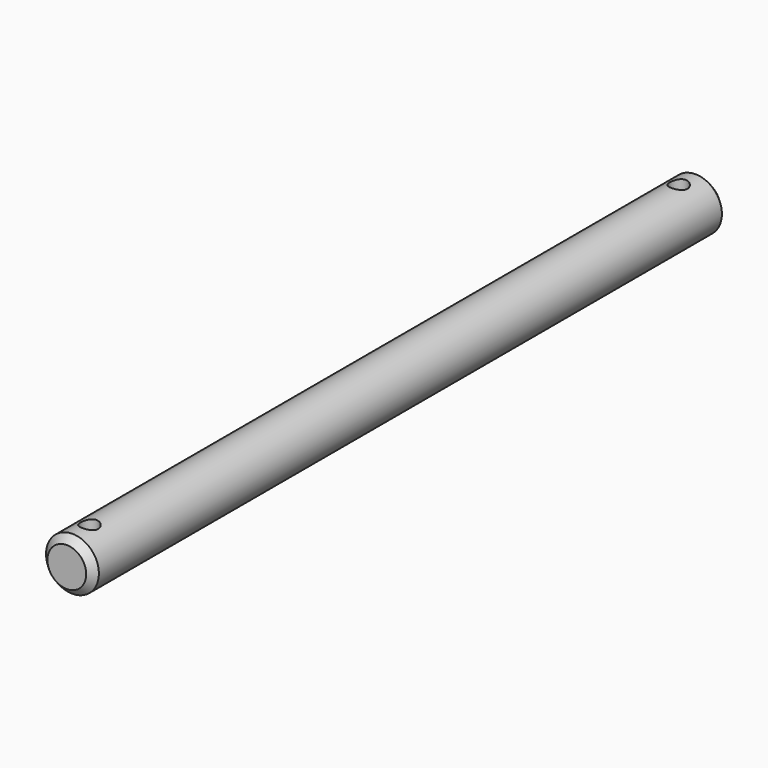
from build123d import *

# Parameters (mm, degrees)
F0_R     = 7.5
F1_DEPTH = 225
F3_R     = 2.5
F4_DEPTH = 15.001
F5_SIZE  = 2
F6_SIZE  = 2


with BuildPart() as f1:
    # F0 (on Front) → F1 (new body)
    with BuildSketch(Plane.XZ):
        Circle(F0_R)
    extrude(amount=F1_DEPTH)

    # F3 (on offset) → F4 (cut, through all)
    with BuildSketch(Plane.XY.offset(7.5)):
        with Locations((0, -8)):
            Circle(F3_R)
        with Locations((0, -217)):
            Circle(F3_R)
    extrude(amount=-F4_DEPTH, mode=Mode.SUBTRACT)

    # F5
    f5_edges = [f1.edges().sort_by_distance(p)[0] for p in [
        (-7.5, -225, 0),
    ]]
    chamfer(f5_edges, length=F5_SIZE)

    # F6
    f6_edges = [f1.edges().sort_by_distance(p)[0] for p in [
        (-7.5, 0, 0),
    ]]
    chamfer(f6_edges, length=F6_SIZE)


solid = f1.part
